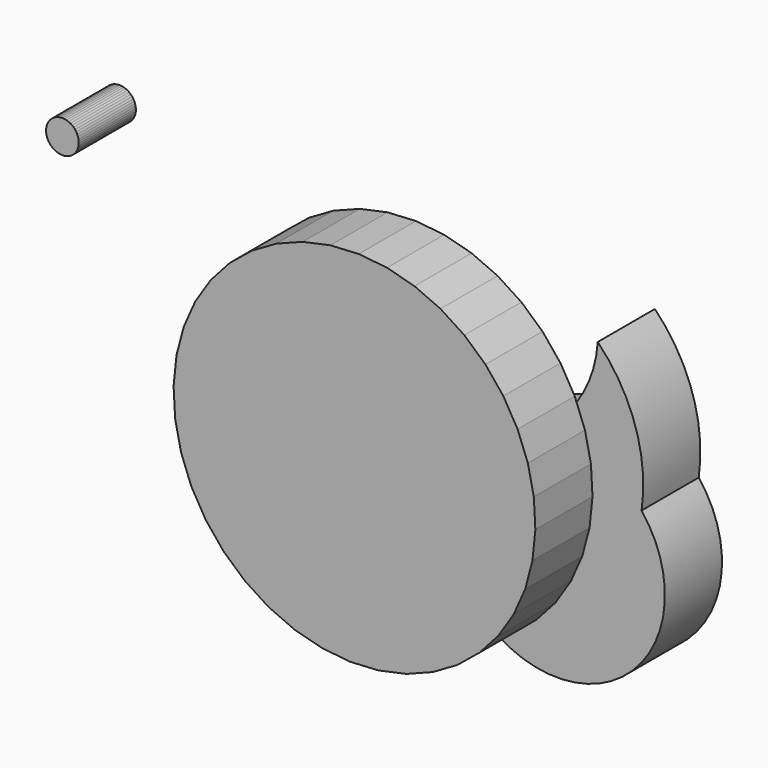
from build123d import *

# Parameters (mm, degrees)
F1_DEPTH = 25.4
F3_DEPTH = 25.4


with BuildPart() as f1:
    # F0 (on Front) → F1 (new body)
    with BuildSketch(Plane.XZ):
        with BuildLine():
            ThreePointArc((-15.032011, 3.646128), (-42.845656, 13.381075), (-57.681628, 38.842063))
            ThreePointArc((-57.681628, 38.842063), (-65.130136, -19.139923), (-17.212109, -52.62505))
            ThreePointArc((-17.212109, -52.62505), (-41.574986, -23.503346), (-15.032011, 3.646128))
        make_face()
        with BuildLine():
            ThreePointArc((-15.032011, 3.646128), (-41.574986, -23.503346), (-17.212109, -52.62505))
            ThreePointArc((-17.212109, -52.62505), (21.981795, -40.190329), (42.339665, -4.464406))
            ThreePointArc((42.339665, -4.464406), (25.968523, 7.526778), (5.768808, 9.469525))
            ThreePointArc((5.768808, 9.469525), (-0.719315, 6.376283), (-7.63522, 4.418187))
            ThreePointArc((-7.63522, 4.418187), (-10.561051, 3.956097), (-13.511925, 3.698495))
            ThreePointArc((-13.511925, 3.698495), (-14.271734, 3.665525), (-15.032011, 3.646128))
        make_face()
        with BuildLine():
            ThreePointArc((42.339665, -4.464406), (21.981795, -40.190329), (-17.212109, -52.62505))
            ThreePointArc((-17.212109, -52.62505), (36.414816, -58.0371), (42.339665, -4.464406))
        make_face()
        with BuildLine():
            ThreePointArc((-13.511925, 3.698495), (-14.27232, 3.682526), (-15.032011, 3.646128))
            ThreePointArc((-15.032011, 3.646128), (-14.271734, 3.665525), (-13.511925, 3.698495))
        make_face()
        with BuildLine():
            ThreePointArc((5.768808, 9.469525), (25.968523, 7.526778), (42.339665, -4.464406))
            ThreePointArc((42.339665, -4.464406), (40.142218, 21.227498), (26.747528, 43.261223))
            ThreePointArc((26.747528, 43.261223), (20.4452, 23.765961), (5.768808, 9.469525))
        make_face()
        with BuildLine():
            ThreePointArc((-7.63522, 4.418187), (-0.719315, 6.376283), (5.768808, 9.469525))
            ThreePointArc((5.768808, 9.469525), (-1.171482, 7.576136), (-7.63522, 4.418187))
        make_face()
    extrude(amount=F1_DEPTH)

    # F2 (on face) → F3 (join)
    with BuildSketch(Plane.XZ.offset(25.4)):
        Polygon((-21.062149, -65.934605), (-11.641358, -62.294), (-2.906069, -57.224481), (4.928627, -50.850876), (11.669813, -43.330124), (17.151499, -34.847411), (21.238708, -25.61161), (23.830799, -15.850136), (24.863947, -5.80335), (24.31271, 4.281363), (22.190664, 14.155685), (18.55006, 23.576476), (13.480541, 32.311765), (7.106935, 40.146461), (-0.413817, 46.887647), (-8.89653, 52.369334), (-18.132331, 56.456543), (-27.893805, 59.048634), (-37.940591, 60.081781), (-48.025304, 59.530545), (-57.899625, 57.408498), (-67.320416, 53.767894), (-76.055706, 48.698375), (-83.890402, 42.324769), (-90.631588, 34.804017), (-96.113274, 26.321305), (-100.200483, 17.085503), (-102.792574, 7.32403), (-103.825721, -2.722757), (-103.274485, -12.80747), (-101.152439, -22.681791), (-97.511834, -32.102582), (-92.442315, -40.837871), (-86.06871, -48.672567), (-78.547958, -55.413754), (-70.065245, -60.89544), (-60.829444, -64.982649), (-51.06797, -67.57474), (-41.021184, -68.607887), (-30.936471, -68.056651), align=None)
        Polygon((-139.969022, 57.833415), (-139.404385, 58.297749), (-138.902397, 58.829188), (-138.470974, 59.419353), (-138.11692, 60.058936), (-137.845819, 60.737851), (-137.661946, 61.445389), (-137.568202, 62.170395), (-137.566063, 62.901432), (-137.655565, 63.626973), (-137.835296, 64.335575), (-138.102421, 65.016064), (-138.452727, 65.657707), (-138.88069, 66.250386), (-139.379561, 66.784753), (-139.941472, 67.252381), (-140.557562, 67.645896), (-141.218114, 67.959092), (-141.912711, 68.187028), (-142.630399, 68.326111), (-143.35986, 68.374148), (-144.089589, 68.33038), (-144.808079, 68.195497), (-145.503997, 67.971628), (-146.16637, 67.662302), (-146.784751, 67.272398), (-147.349389, 66.808064), (-147.851377, 66.276625), (-148.2828, 65.68646), (-148.636854, 65.046877), (-148.907955, 64.367963), (-149.091827, 63.660424), (-149.185572, 62.935419), (-149.18771, 62.204381), (-149.098208, 61.47884), (-148.918478, 60.770238), (-148.651353, 60.089749), (-148.301047, 59.448106), (-147.873084, 58.855427), (-147.374213, 58.32106), (-146.812302, 57.853432), (-146.196212, 57.459917), (-145.53566, 57.146721), (-144.841063, 56.918785), (-144.123374, 56.779702), (-143.393914, 56.731665), (-142.664185, 56.775434), (-141.945695, 56.910316), (-141.249776, 57.134185), (-140.587403, 57.443511), align=None)
    extrude(amount=F3_DEPTH)


solid = f1.part
